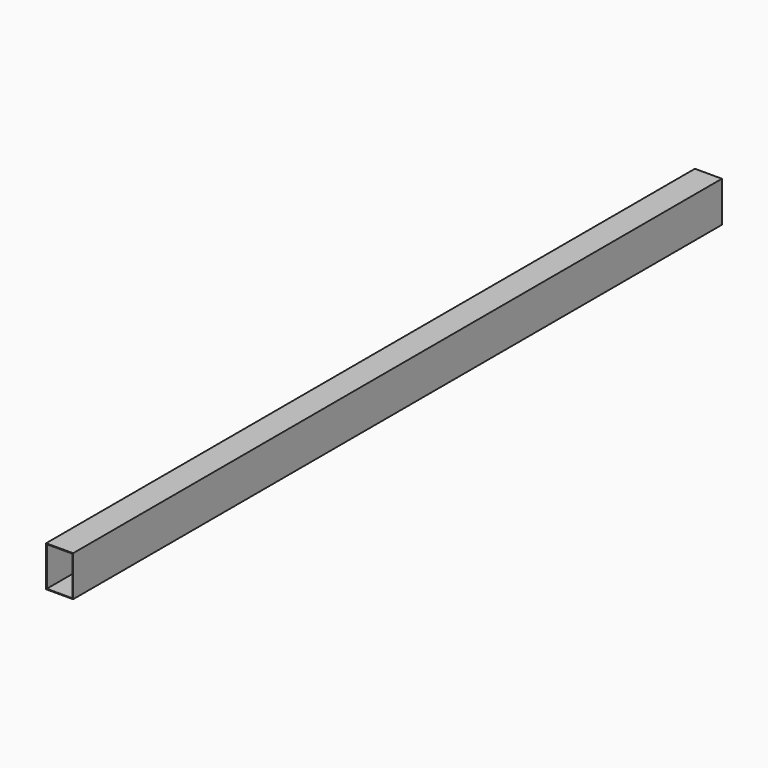
from build123d import *

# Parameters (mm, degrees)
F0_W     = 101.6
F0_H     = 152.4
F1_DEPTH = 1524
F2_T     = -2.54


with BuildPart() as f1:
    # F0 (on Front) → F1 (new body, symmetric)
    with BuildSketch(Plane.XZ):
        Rectangle(F0_W, F0_H)
    extrude(amount=F1_DEPTH, both=True)

    # F2
    f2_openings = [f1.faces().sort_by_distance(p)[0] for p in [
        (0, -1524, 0),
    ]]
    offset(amount=F2_T, openings=f2_openings)


solid = f1.part
